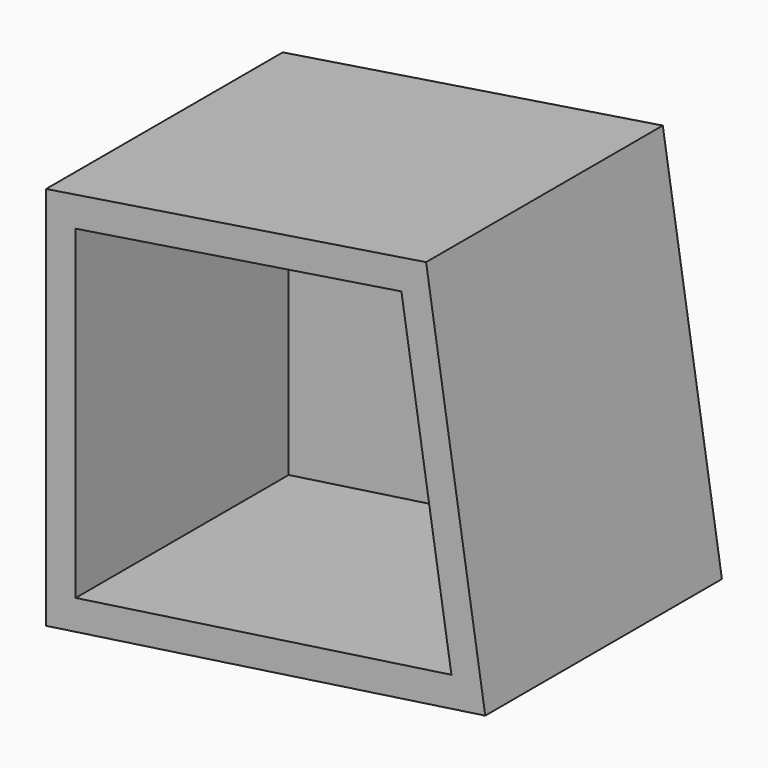
from build123d import *

# Parameters (mm, degrees)
F1_DEPTH = 12.7
F2_T     = -2.54


with BuildPart() as f1:
    # F0 (on Front) → F1 (new body, symmetric)
    with BuildSketch(Plane.XZ):
        Polygon((0, 33.02), (0, 0), (37.705181, 5.470769), (32.627206, 38.097975), align=None)
    extrude(amount=F1_DEPTH, both=True)

    # F2
    f2_openings = [f1.faces().sort_by_distance(p)[0] for p in [
        (17.64603, -12.7, 18.759286),
    ]]
    offset(amount=F2_T, openings=f2_openings)


solid = f1.part
